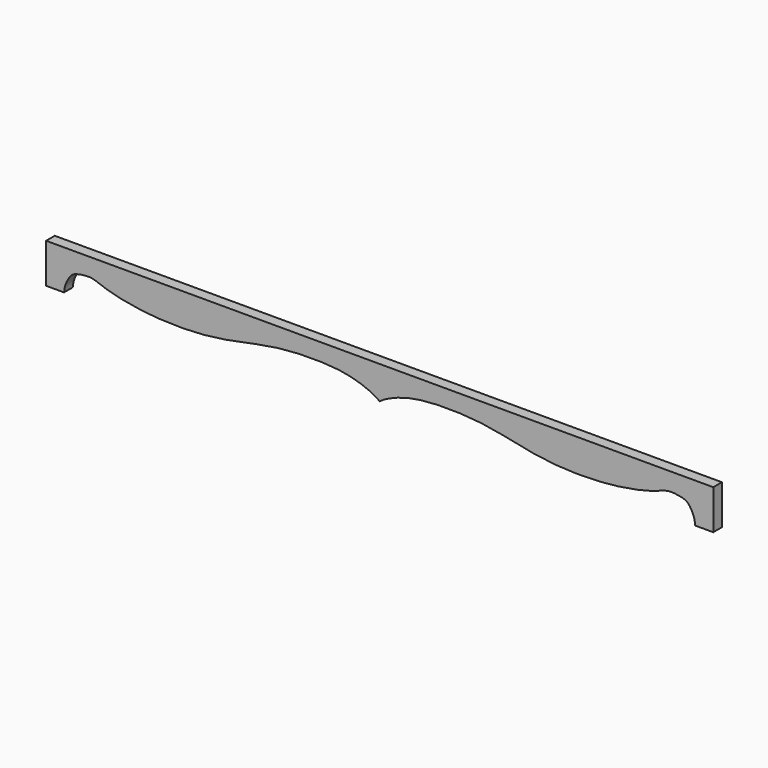
from build123d import *

# Parameters (mm, degrees)
F0_W     = 1174.75
F0_H     = 69.85
F1_DEPTH = 19.05
F3_DEPTH = 25.4


with BuildPart() as f1:
    # F0 (on Front) → F1 (new body)
    with BuildSketch(Plane.XZ):
        with Locations((587.375, 34.925)):
            Rectangle(F0_W, F0_H)
    extrude(amount=F1_DEPTH)

    # F2 (on face) → F3 (cut)
    with BuildSketch(Plane.XZ.offset(19.05)):
        with BuildLine():
            add(Edge.make_bspline(
                [(1143.1052198112, 0), (1142.6344672699, 3.9204642248), (1141.5701822383, 12.7839137561), (1131.5497711334, 32.424993295), (1117.9116613756, 36.917948916), (1094.0371525692, 40.115930089), (1073.0727419519, 29.1507722696), (998.1657491496, 11.6874187561), (879.6935465305, 10.9269498222), (785.5293878536, 36.4928763537), (707.3859198902, 41.2476510702), (642.1508729508, 37.4136075473), (599.7558680918, 20.9455816882), (590.675017858, 14.243779346), (587.375, 11.8083171546)],
                knots=[0, 0, 0, 0, 0.0459888569, 0.1039723585, 0.1519405354, 0.2121469643, 0.2725515983, 0.382449114, 0.5239296782, 0.6508675158, 0.7635034009, 0.8678392877, 0.9519722603, 1, 1, 1, 1], degree=3))
            Line((587.375, 11.8083171546), (587.375, 0))
            Line((587.375, 0), (1143.1052198112, 0))
        make_face()
        with BuildLine():
            Line((587.375, 0), (587.375, 11.8083171546))
            add(Edge.make_bspline(
                [(31.6447801888, 0), (32.1155327301, 3.9204642248), (33.1798177617, 12.7839137561), (43.2002288666, 32.424993295), (56.8383386244, 36.917948916), (80.7128474308, 40.115930089), (101.6772580481, 29.1507722696), (176.5842508504, 11.6874187561), (295.0564534695, 10.9269498222), (389.2206121464, 36.4928763537), (467.3640801098, 41.2476510702), (532.5991270492, 37.4136075473), (574.9941319082, 20.9455816882), (584.074982142, 14.243779346), (587.375, 11.8083171546)],
                knots=[0, 0, 0, 0, 0.0459888569, 0.1039723585, 0.1519405354, 0.2121469643, 0.2725515983, 0.382449114, 0.5239296782, 0.6508675158, 0.7635034009, 0.8678392877, 0.9519722603, 1, 1, 1, 1], degree=3))
            Line((31.6447801888, 0), (587.375, 0))
        make_face()
    extrude(amount=-F3_DEPTH, mode=Mode.SUBTRACT)


solid = f1.part
